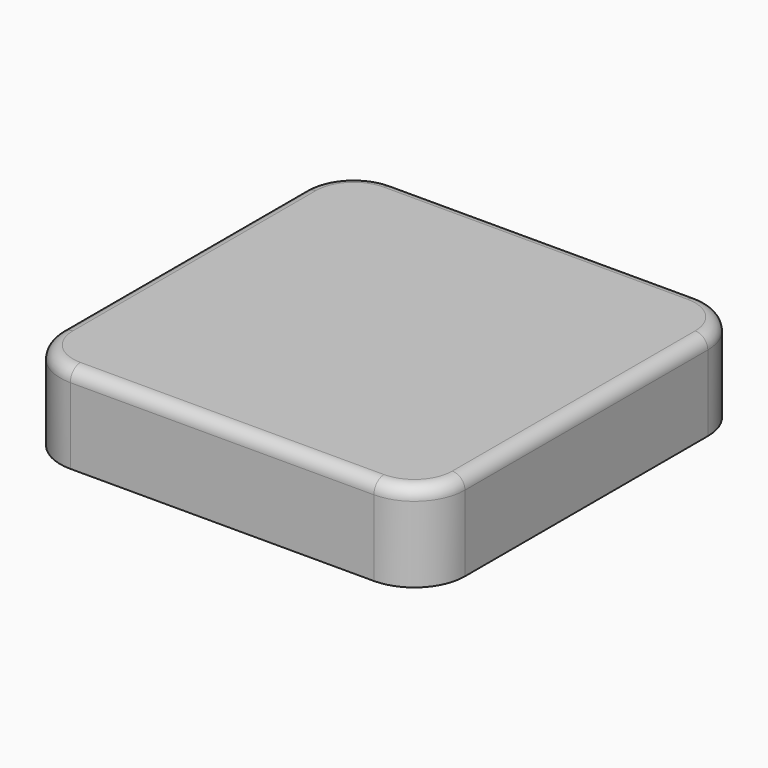
from build123d import *

# Parameters (mm, degrees)
F0_W     = 406.4
F0_H     = 406.4
F1_DEPTH = 88.9
F2_R     = 50.8
F3_R     = 12.7


with BuildPart() as f1:
    # F0 (on Top) → F1 (new body)
    with BuildSketch(Plane.XY):
        Rectangle(F0_W, F0_H)
    extrude(amount=-F1_DEPTH)

    # F2
    f2_edges = [f1.edges().sort_by_distance(p)[0] for p in [
        (-203.2, -203.2, -44.45),
        (203.2, -203.2, -44.45),
        (203.2, 203.2, -44.45),
        (-203.2, 203.2, -44.45),
    ]]
    fillet(f2_edges, radius=F2_R)

    # F3
    f3_edges = [f1.edges().sort_by_distance(p)[0] for p in [
        (0, 203.2, 0),
    ]]
    fillet(f3_edges, radius=F3_R)


solid = f1.part
